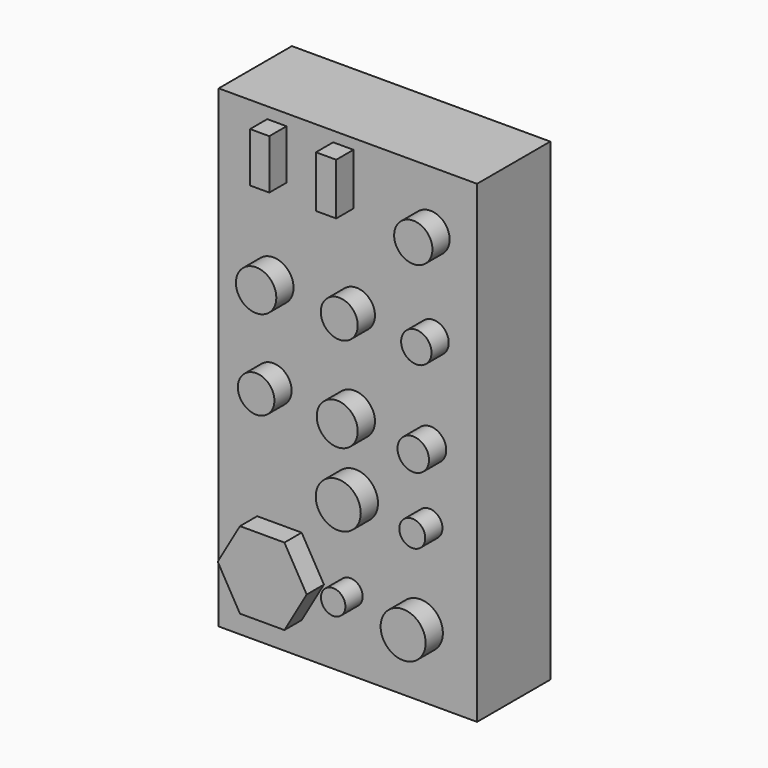
from build123d import *

# Parameters (mm, degrees)
F0_W     = 152.4
F0_H     = 279.4
F1_DEPTH = 53.975
F2_R     = 10.779843
F2_R_2   = 11.914255
F2_W     = 11.361208
F2_H     = 29.29996
F2_W_2   = 11.959181
F2_H_2   = 30.495897
F2_R_3   = 10.911721
F2_R_4   = 12.092973
F2_R_5   = 13.276833
F2_R_6   = 13.27683
F2_R_7   = 7.22516
F2_R_8   = 7.657603
F2_R_9   = 9.282801
F2_R_10  = 8.96937
F2_R_11  = 11.282249
F3_DEPTH = 12.7


with BuildPart() as f1:
    # F0 (on Front) → F1 (new body)
    with BuildSketch(Plane.XZ):
        with Locations((76.2, 139.7)):
            Rectangle(F0_W, F0_H)
    extrude(amount=-F1_DEPTH)

    # F2 (on face) → F3 (join)
    with BuildSketch(Plane.XZ):
        Polygon((48.956591, 64.652771), (22.718993, 64.652771), (9.600193, 41.930344), (22.718993, 19.207917), (48.956591, 19.207917), (62.07539, 41.930344), align=None)
        with Locations((32.250043, 136.407822)):
            Circle(F2_R)
        with Locations((32.250043, 190.224111)):
            Circle(F2_R_2)
        with Locations((34.342894, 258.092411)):
            Rectangle(F2_W, F2_H)
        with Locations((73.509186, 258.092425)):
            Rectangle(F2_W_2, F2_H_2)
        with Locations((81.28266, 191.420019)):
            Circle(F2_R_3)
        with Locations((80.08673, 136.407822)):
            Circle(F2_R_4)
        with Locations((80.684699, 94.550714)):
            Circle(F2_R_5)
        with Locations((118.954055, 39.53851)):
            Circle(F2_R_6)
        with Locations((77.694908, 43.126259)):
            Circle(F2_R_7)
        with Locations((124.335676, 93.952753)):
            Circle(F2_R_8)
        with Locations((124.933645, 135.2119)):
            Circle(F2_R_9)
        with Locations((126.727521, 191.420019)):
            Circle(F2_R_10)
        with Locations((124.933645, 245.236307)):
            Circle(F2_R_11)
    extrude(amount=F3_DEPTH)


solid = f1.part
